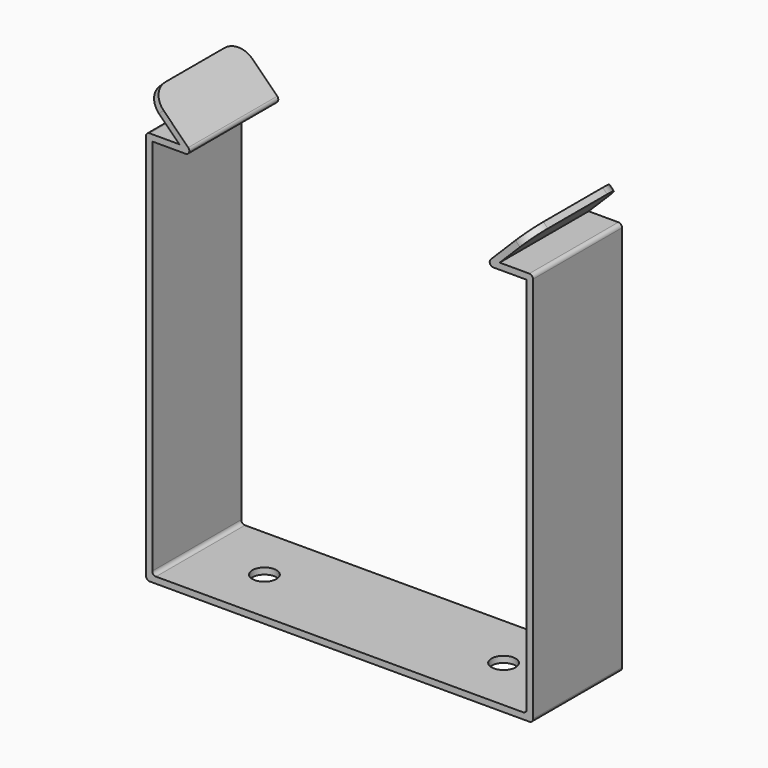
from build123d import *

# Parameters (mm, degrees)
F1_DEPTH = 30
F3_D     = 6.5
F4_R     = 5
F5_R     = 1


with BuildPart() as f1:
    # F0 (on Front) → F1 (new body)
    with BuildSketch(Plane.XZ):
        Polygon((50.5, 0), (0, 0), (-50.5, 0), (-50.5, 103), (-41.288837, 103), (-39.095837, 103), (-50.997918, 114.902082), (-52.2, 113.7), (-43.2, 104.7), (-52.2, 104.7), (-52.2, -1.7), (0, -1.7), (52.2, -1.7), (52.2, 104.7), (43.2, 104.7), (52.2, 113.7), (50.997918, 114.902082), (39.095837, 103), (41.288837, 103), (50.5, 103), align=None)
    extrude(amount=F1_DEPTH)

    # F3 (through all)
    with Locations(Plane.XY):
        with Locations((32.25, -15), (-32.25, -15)):
            Hole(F3_D / 2)

    # F4
    f4_edges = [f1.edges().sort_by_distance(p)[0] for p in [
        (-51.598959, 0, 114.301041),
        (-51.598959, -30, 114.301041),
        (51.598959, 0, 114.301041),
        (51.598959, -30, 114.301041),
    ]]
    fillet(f4_edges, radius=F4_R)

    # F5
    f5_edges = [f1.edges().sort_by_distance(p)[0] for p in [
        (52.2, -15, 104.7),
        (-39.095837, -15, 103),
        (-52.2, -15, 104.7),
        (-50.5, -15, 0),
        (52.2, -15, -1.7),
        (39.095837, -15, 103),
        (50.5, -15, 0),
        (-52.2, -15, -1.7),
    ]]
    fillet(f5_edges, radius=F5_R)


solid = f1.part
